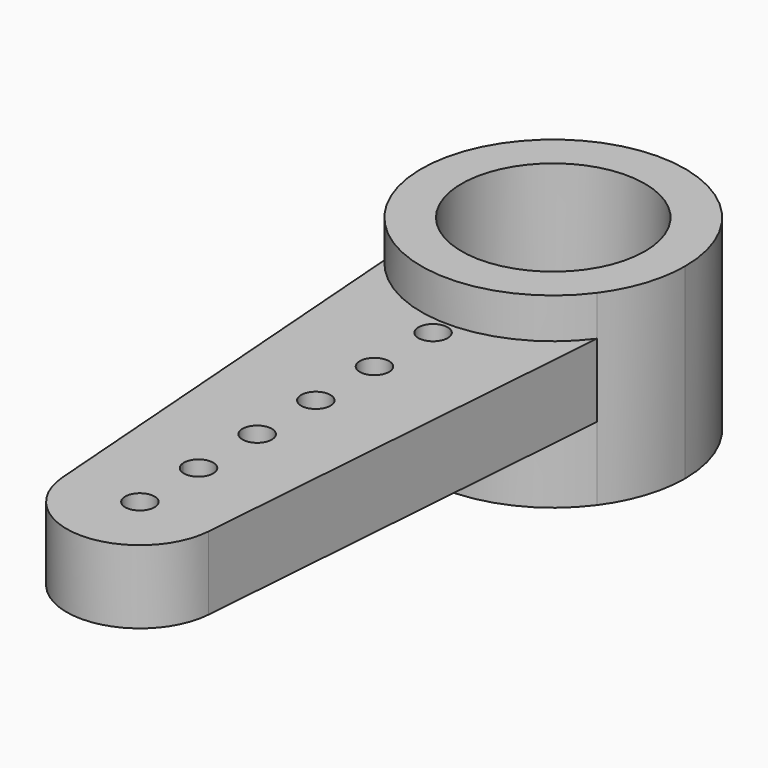
from build123d import *

# Parameters (mm, degrees)
F0_R          = 0.4
F1_DEPTH      = 2
F0_R_2        = 2.5
F2_DEPTH      = 3.1
F2_DEPTH_BACK = 2


with BuildPart() as f1:
    # F0 (on Top) → F1 (new body)
    with BuildSketch(Plane.XY):
        with BuildLine():
            ThreePointArc((2.9, -2.133073), (0, -3.6), (-2.9, -2.133073))
            Line((-2.9, -2.133073), (-1.994437, -14.249066))
            ThreePointArc((-1.994437, -14.249066), (-1.59467, -12.892926), (-0.397995, -12.14))
            ThreePointArc((-0.397995, -12.14), (-0.020025, -11.700502), (0.4, -12.1))
            ThreePointArc((0.4, -12.1), (0.399498, -12.120025), (0.397995, -12.14))
            ThreePointArc((0.397995, -12.14), (1.548546, -12.834297), (2, -14.1))
            ThreePointArc((2, -14.1), (1.998609, -14.174585), (1.994437, -14.249066))
            Line((1.994437, -14.249066), (2.9, -2.133073))
        make_face()
        with Locations((0, -10.1)):
            Circle(F0_R, mode=Mode.SUBTRACT)
        with Locations((0, -8.1)):
            Circle(F0_R, mode=Mode.SUBTRACT)
        with Locations((0, -6.1)):
            Circle(F0_R, mode=Mode.SUBTRACT)
        with Locations((0, -4.1)):
            Circle(F0_R, mode=Mode.SUBTRACT)
        with BuildLine():
            ThreePointArc((-0.397995, -12.14), (-1.59467, -12.892926), (-1.994437, -14.249066))
            ThreePointArc((-1.994437, -14.249066), (0, -16.1), (1.994437, -14.249066))
            ThreePointArc((1.994437, -14.249066), (1.998609, -14.174585), (2, -14.1))
            ThreePointArc((2, -14.1), (1.548546, -12.834297), (0.397995, -12.14))
            ThreePointArc((0.397995, -12.14), (0, -12.5), (-0.397995, -12.14))
        make_face()
        with Locations((0, -14.1)):
            Circle(F0_R, mode=Mode.SUBTRACT)
    extrude(amount=F1_DEPTH)

    # F0 (on Top) → F2 (join, two sides)
    with BuildSketch(Plane.XY) as f2_sk:
        with BuildLine():
            ThreePointArc((2.9, -2.133073), (3.420526, -1.122497), (3.6, 0))
            ThreePointArc((3.6, 0), (-1.122497, 3.420526), (-2.9, -2.133073))
            ThreePointArc((-2.9, -2.133073), (0, -3.6), (2.9, -2.133073))
        make_face()
        Circle(F0_R_2, mode=Mode.SUBTRACT)
    extrude(amount=F2_DEPTH)
    extrude(f2_sk.sketch, amount=-F2_DEPTH_BACK)


solid = f1.part
